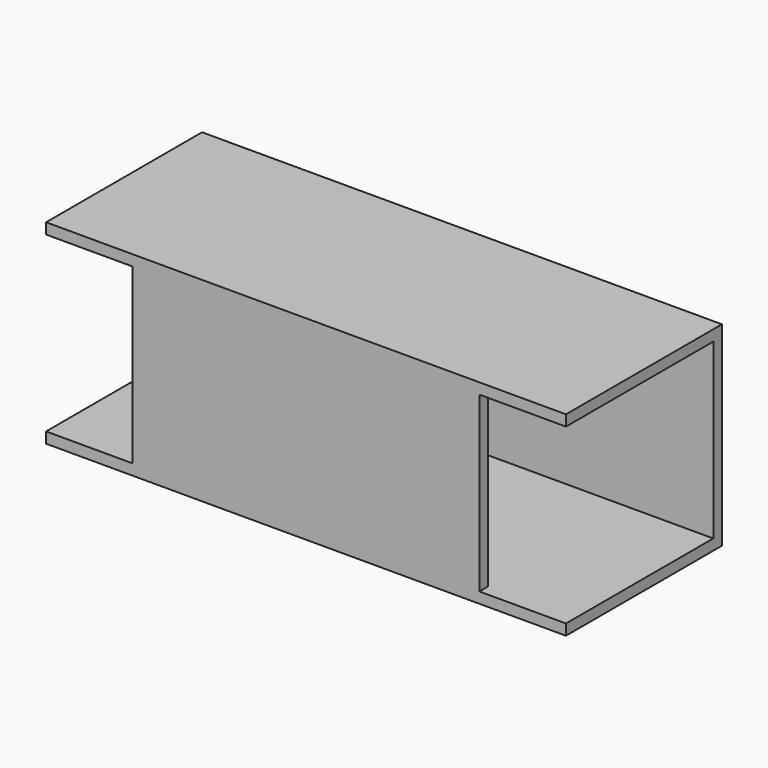
from build123d import *

# Parameters (mm, degrees)
F0_W     = 203.2
F0_H     = 114.3
F1_DEPTH = 114.3
F2_W     = 101.6
F2_H     = 101.6
F3_DEPTH = 203.201
F4_W     = 107.95
F4_H     = 6.35
F5_DEPTH = 50.8
F6_W     = 107.95
F6_H     = 6.35
F7_DEPTH = 50.8


with BuildPart() as f1:
    # F0 (on Top) → F1 (new body)
    with BuildSketch(Plane.XY):
        Rectangle(F0_W, F0_H)
    extrude(amount=F1_DEPTH)

    # F2 (on face) → F3 (cut, through all)
    with BuildSketch(Plane(origin=(-101.6, 0, 0), x_dir=(0, -1, 0), z_dir=(-1, 0, 0))):
        with Locations((0, 57.15)):
            Rectangle(F2_W, F2_H)
    extrude(amount=-F3_DEPTH, mode=Mode.SUBTRACT)

    # F4 (on face) → F5 (join)
    with BuildSketch(Plane.YZ.offset(101.6)):
        Polygon((57.15, 0), (57.15, 114.3), (50.8, 114.3), (50.8, 107.95), (50.8, 6.35), (50.8, 0), align=None)
        with Locations((-3.175, 111.125)):
            Rectangle(F4_W, F4_H)
        with Locations((-3.175, 3.175)):
            Rectangle(F4_W, F4_H)
    extrude(amount=F5_DEPTH)

    # F6 (on face) → F7 (join)
    with BuildSketch(Plane(origin=(-101.6, 0, 0), x_dir=(0, -1, 0), z_dir=(-1, 0, 0))):
        Polygon((-50.8, 114.3), (-57.15, 114.3), (-57.15, 0), (-50.8, 0), (-50.8, 6.35), (-50.8, 107.95), align=None)
        with Locations((3.175, 111.125)):
            Rectangle(F6_W, F6_H)
        with Locations((3.175, 3.175)):
            Rectangle(F6_W, F6_H)
    extrude(amount=F7_DEPTH)


solid = f1.part
